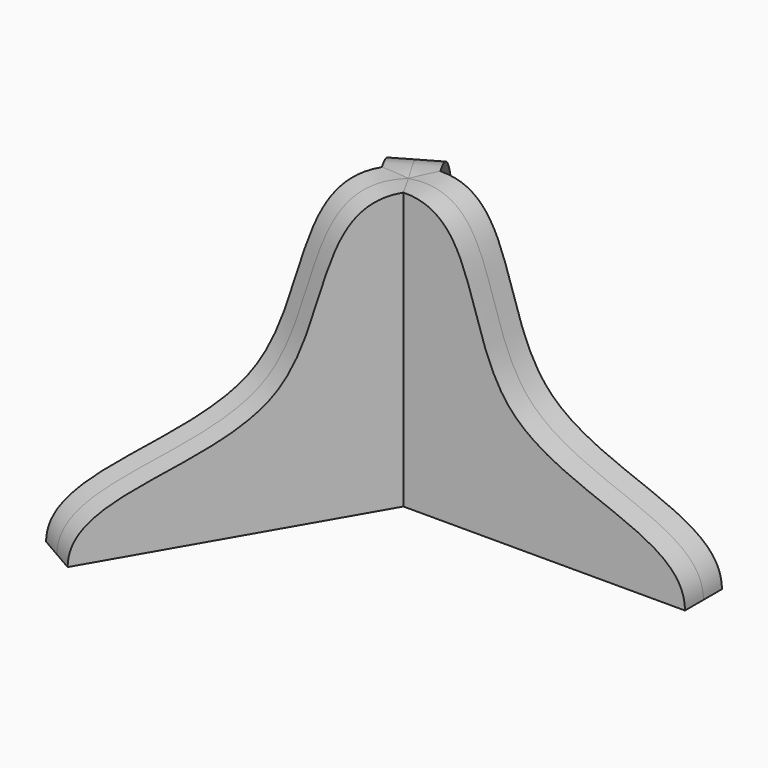
from build123d import *

# Parameters (mm, degrees)
F1_DEPTH = 2
F3_COUNT = 3


with BuildPart() as f1:
    # F0 (on Front) → F1 (new body, symmetric)
    with BuildSketch(Plane.XZ):
        with BuildLine():
            Line((0, 23.8327663392), (0, 0))
            Line((0, 0), (25.5351066589, 0))
            add(Edge.make_bspline(
                [(0, 23.8327663392), (7.7778338455, 25.0649191439), (4.4978563392, 5.2161183837), (25.5136132021, 5.5859300725), (25.5351066589, 0)],
                knots=[0, 0, 0, 0, 0.4893400992, 1, 1, 1, 1], degree=3))
        make_face()
    extrude(amount=F1_DEPTH, both=True)

    # F3: F1 ×3 about axis
    f3_axis = Axis((0, 0, 4.0417579003), (0, 0, 1))


with BuildPart() as f1_1:
    add(f1.part)
    for i in range(1, F3_COUNT):
        add(f1.part.rotate(f3_axis, i * 360 / F3_COUNT))


solid = f1_1.part
